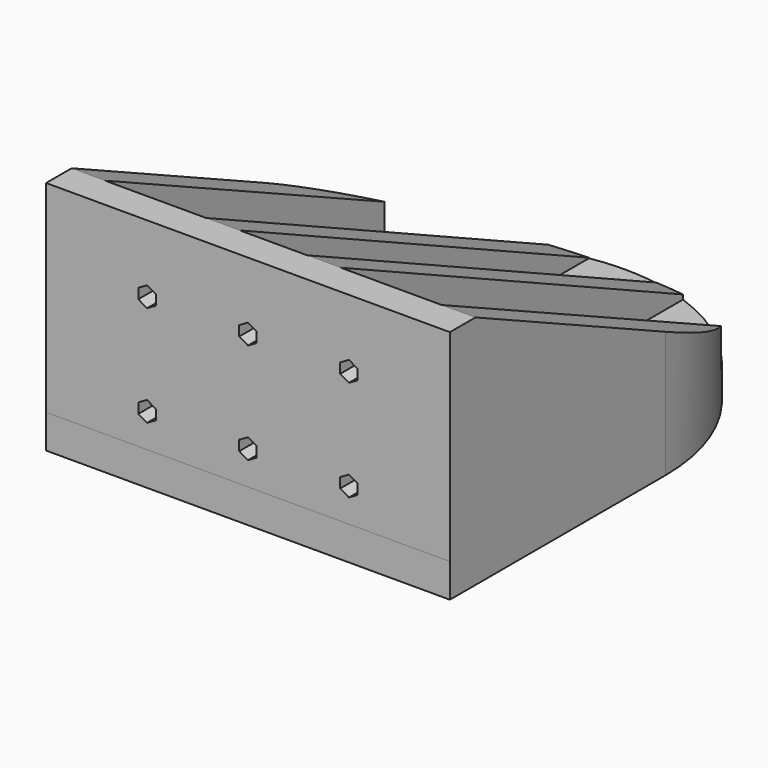
from build123d import *

# Parameters (mm, degrees)
F0_W      = 60
F0_H      = 70
F1_DEPTH  = 5
F2_W      = 60
F2_H      = 4.739929
F3_DEPTH  = 30
F5_DEPTH  = 25
F7_DEPTH  = 5
F9_DEPTH  = 5
F11_DEPTH = 65
F13_DEPTH = 25
F15_DEPTH = 25


with BuildPart() as f1:
    # F0 (on Top) → F1 (new body)
    with BuildSketch(Plane.XY):
        with Locations((30, 35)):
            Rectangle(F0_W, F0_H)
    extrude(amount=F1_DEPTH)

    # F2 (on face) → F3 (join)
    with BuildSketch(Plane.XY.offset(5)):
        with Locations((30, 2.369965)):
            Rectangle(F2_W, F2_H)
    extrude(amount=F3_DEPTH)

    # F4 (on face) → F5 (cut)
    with BuildSketch(Plane.XZ):
        Polygon((13.700962, 24.25), (15, 23.5), (15, 25), (15, 26.5), (13.700962, 25.75), align=None)
        Polygon((15, 25), (15, 23.5), (16.299038, 24.25), (16.299038, 25), align=None)
        Polygon((15, 26.5), (15, 25), (16.299038, 25), (16.299038, 25.75), align=None)
        Polygon((30, 25), (28.700962, 25), (28.700962, 24.25), (30, 23.5), (31.299038, 24.25), (31.299038, 25), align=None)
        Polygon((28.700962, 25.75), (28.700962, 25), (30, 25), (30, 26.5), align=None)
        Polygon((30, 26.5), (30, 25), (31.299038, 25), (31.299038, 25.75), align=None)
        Polygon((43.700962, 25.75), (43.700962, 25), (45, 25), (45, 26.5), align=None)
        Polygon((45, 25), (43.700962, 25), (43.700962, 24.25), (45, 23.5), (46.299038, 24.25), (46.299038, 25.75), (45, 26.5), align=None)
        Polygon((45, 10), (43.700962, 10), (43.700962, 9.25), (45, 8.5), (46.299038, 9.25), (46.299038, 10.75), (45, 11.5), align=None)
        Polygon((43.700962, 10.75), (43.700962, 10), (45, 10), (45, 11.5), align=None)
        Polygon((30, 10), (30, 8.5), (31.299038, 9.25), (31.299038, 10), align=None)
        Polygon((28.700962, 9.25), (30, 8.5), (30, 10), (28.700962, 10), align=None)
        Polygon((28.700962, 10), (30, 10), (30, 11.5), (28.700962, 10.75), align=None)
        Polygon((30, 11.5), (30, 10), (31.299038, 10), (31.299038, 10.75), align=None)
        Polygon((16.299038, 9.25), (16.299038, 10), (15, 10), (15, 11.5), (13.700962, 10.75), (13.700962, 9.25), (15, 8.5), align=None)
        Polygon((15, 10), (16.299038, 10), (16.299038, 10.75), (15, 11.5), align=None)
    extrude(amount=-F5_DEPTH, mode=Mode.SUBTRACT)

    # F6 (on face) → F7 (join)
    with BuildSketch(Plane(origin=(0, 0, 0), x_dir=(0, -1, 0), z_dir=(-1, 0, 0))):
        Polygon((-4.739929, 5), (-4.739929, 35), (-70, 5), align=None)
    extrude(amount=-F7_DEPTH)

    # F8 (on face) → F9 (join)
    with BuildSketch(Plane.YZ.offset(60)):
        Polygon((70, 5), (4.739929, 35), (4.739929, 5), align=None)
    extrude(amount=-F9_DEPTH)

    # F10 (on face) → F11 (join)
    with BuildSketch(Plane(origin=(0, 4.739929, 0), x_dir=(-1, 0, 0), z_dir=(0, 1, 0))):
        Polygon((-35, 30), (-35, 35), (-40, 35), (-40, 5), (-35, 5), align=None)
        Polygon((-20, 35), (-25, 35), (-25, 30), (-25, 5), (-20, 5), align=None)
    extrude(amount=F11_DEPTH)

    # F12 (on face) → F13 (cut)
    with BuildSketch(Plane(origin=(20, 0, 0), x_dir=(0, -1, 0), z_dir=(-1, 0, 0))):
        Polygon((-69.739929, 5), (-4.739929, 35), (-4.739929, 44.973344), (-69.739929, 44.973344), align=None)
    extrude(amount=-F13_DEPTH, mode=Mode.SUBTRACT)

    # F14 (on face) → F15 (cut)
    with BuildSketch(Plane(origin=(0, 0, 0), x_dir=(1, 0, 0), z_dir=(0, 0, -1))):
        Polygon((60, -70), (30, -70), (0, -70), (0, -40), (-10, -40), (-10, -80), (70, -80), (70, -40), (60, -40), align=None)
        with BuildLine():
            Line((0, -70), (30, -70))
            ThreePointArc((30, -70), (8.786797, -61.213203), (0, -40))
            Line((0, -40), (0, -70))
        make_face()
        with BuildLine():
            ThreePointArc((60, -40), (51.213203, -61.213203), (30, -70))
            Line((30, -70), (60, -70))
            Line((60, -70), (60, -40))
        make_face()
    extrude(amount=-F15_DEPTH, mode=Mode.SUBTRACT)


solid = f1.part
